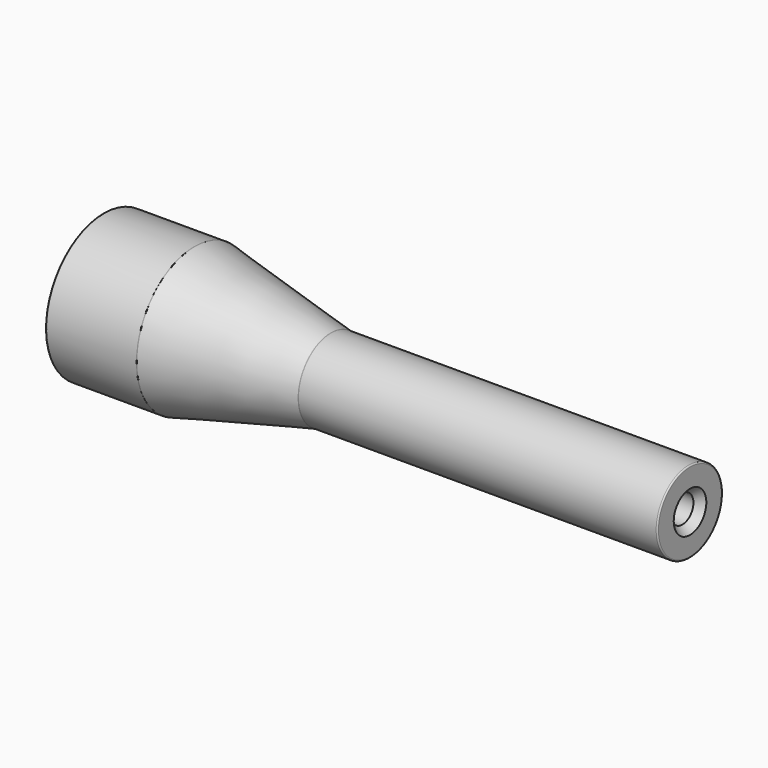
from build123d import *

# Parameters (mm, degrees)
F3_D           = 10.71626
F3_DEPTH       = 38.1
F3_CSINK_D     = 15.875
F3_CSINK_ANGLE = 82
F3_TIP         = 3.2194893086
F5_D           = 10.71626
F5_DEPTH       = 191.008
F5_TIP         = 3.2194893086
F6_R           = 0.508


with BuildPart() as f1:
    # F0 (on Front) → F1 (revolve)
    with BuildSketch(Plane.XZ):
        Polygon((0, 28.2575), (0, 0), (228.6, 0), (228.6, 15.875), (88.646, 15.875), (35.56, 28.2575), align=None)
    revolve(axis=Axis((114.3, 0, 0), (1, 0, 0)))

    # F3
    with Locations(Plane.YZ.offset(228.6)):
        with Locations((0, 0)):
            CounterSinkHole(F3_D / 2, F3_CSINK_D / 2, depth=F3_DEPTH, counter_sink_angle=F3_CSINK_ANGLE)
            with Locations((0, 0, -(F3_DEPTH + F3_TIP / 2))):  # 118° drill point
                Cone(0, F3_D / 2, F3_TIP, mode=Mode.SUBTRACT)

    # F5
    with Locations(Plane(origin=(0, 0, 0), x_dir=(0, -1, 0), z_dir=(-1, 0, 0))):
        with Locations((0, 0)):
            Hole(F5_D / 2, depth=F5_DEPTH)
            with Locations((0, 0, -(F5_DEPTH + F5_TIP / 2))):  # 118° drill point
                Cone(0, F5_D / 2, F5_TIP, mode=Mode.SUBTRACT)

    # F6
    f6_edges = [f1.edges().sort_by_distance(p)[0] for p in [
        (0, 0, -28.2575),
        (35.56, 0, -28.2575),
        (88.646, 0, -15.875),
        (228.6, 0, -15.875),
    ]]
    fillet(f6_edges, radius=F6_R)


solid = f1.part
